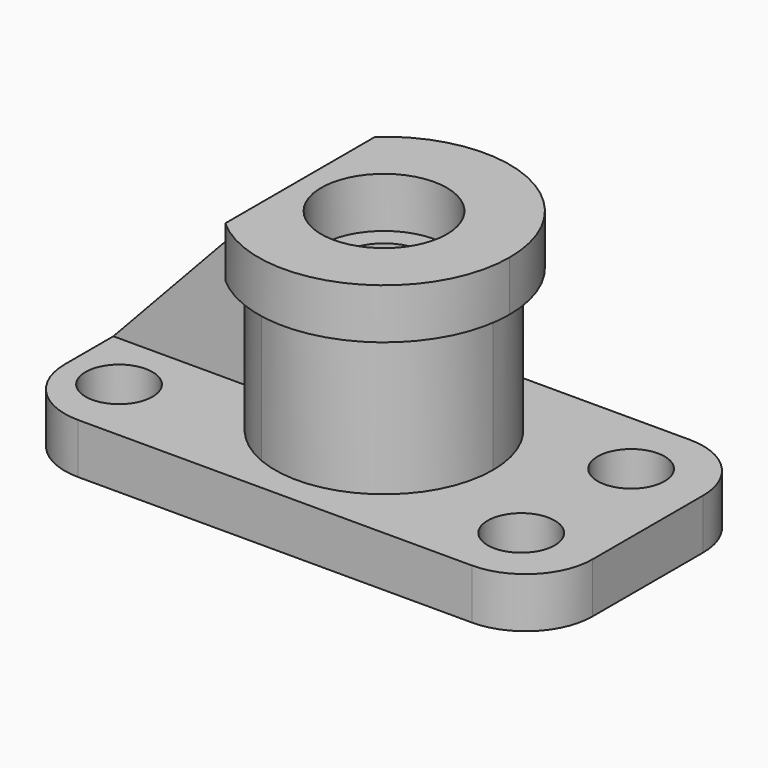
from build123d import *

# Parameters (mm, degrees)
F1_DEPTH  = 58
F3_DEPTH  = 12
F4_R      = 8
F5_DEPTH  = 25
F6_R      = 16
F7_R      = 10
F8_DEPTH  = 12
F9_R      = 15
F9_R_2    = 10
F10_DEPTH = 12
F11_DEPTH = 46
F12_W     = 43
F12_H     = 4
F13_DEPTH = 46
F15_DEPTH = 25


with BuildPart() as f1:
    # F0 (on Top) → F1 (new body)
    with BuildSketch(Plane.XY):
        with BuildLine():
            ThreePointArc((-10, -24), (14.4222051019, -21.6333076528), (26, 0))
            ThreePointArc((26, 0), (14.4222051019, 21.6333076528), (-10, 24))
            Line((-10, 24), (-10, 0))
            Line((-10, 0), (-10, -24))
        make_face()
        with BuildLine():
            ThreePointArc((10, 0), (0, -10), (-10, 0))
            ThreePointArc((-10, 0), (0, 10), (10, 0))
        make_face(mode=Mode.SUBTRACT)
        with BuildLine():
            Line((-10, 0), (-10, 24))
            ThreePointArc((-10, 24), (-26, 0), (-10, -24))
            Line((-10, -24), (-10, 0))
        make_face()
    extrude(amount=F1_DEPTH)

    # F2 (on face) → F3 (join)
    with BuildSketch(Plane(origin=(0, 0, 0), x_dir=(1, 0, 0), z_dir=(0, 0, -1))):
        Polygon((63, 32.5), (0, 32.5), (-63, 32.5), (-63, -32.5), (63, -32.5), align=None)
    extrude(amount=-F3_DEPTH)

    # F4 (on face) → F5 (cut)
    with BuildSketch(Plane.XY.offset(12)):
        with Locations((-50.0454586766, -16.5)):
            Circle(F4_R)
        with Locations((-50.2054683586, 16.5)):
            Circle(F4_R)
        with Locations((45.7945316414, 16.5)):
            Circle(F4_R)
        with Locations((45.9545413234, -16.5)):
            Circle(F4_R)
    extrude(amount=-F5_DEPTH, mode=Mode.SUBTRACT)

    # F6
    f6_edges = [f1.edges().sort_by_distance(p)[0] for p in [
        (-63, 32.5, 6),
        (-63, -32.5, 6),
        (63, 32.5, 6),
        (63, -32.5, 6),
    ]]
    fillet(f6_edges, radius=F6_R)

    # F7 (on face) → F8 (join)
    with BuildSketch(Plane.XY.offset(58)):
        with BuildLine():
            ThreePointArc((26, 0), (8.8317608663, 24.4540385213), (-20, 16.6132477258))
            Line((-20, 16.6132477258), (-20, -16.6132477258))
            ThreePointArc((-20, -16.6132477258), (8.8317608663, -24.4540385213), (26, 0))
        make_face()
        Circle(F7_R, mode=Mode.SUBTRACT)
        with BuildLine():
            ThreePointArc((-20, -22.360679775), (12.2474487139, -27.3861278753), (30, 0))
            ThreePointArc((30, 0), (12.2474487139, 27.3861278753), (-20, 22.360679775))
            Line((-20, 22.360679775), (-20, 16.6132477258))
            ThreePointArc((-20, 16.6132477258), (8.8317608663, 24.4540385213), (26, 0))
            ThreePointArc((26, 0), (8.8317608663, -24.4540385213), (-20, -16.6132477258))
            Line((-20, -16.6132477258), (-20, -22.360679775))
        make_face()
        Circle(F7_R)
        with BuildLine():
            Line((-20, 16.6132477258), (-20, 22.360679775))
            ThreePointArc((-20, 22.360679775), (-30, 0), (-20, -22.360679775))
            Line((-20, -22.360679775), (-20, -16.6132477258))
            ThreePointArc((-20, -16.6132477258), (-26, 0), (-20, 16.6132477258))
        make_face()
        with BuildLine():
            Line((-20, -16.6132477258), (-20, 16.6132477258))
            ThreePointArc((-20, 16.6132477258), (-26, 0), (-20, -16.6132477258))
        make_face()
    extrude(amount=-F8_DEPTH)

    # F9 (on face) → F10 (cut)
    with BuildSketch(Plane.XY.offset(58)):
        Circle(F9_R)
        Circle(F9_R_2, mode=Mode.SUBTRACT)
        Circle(F9_R_2)
    extrude(amount=-F10_DEPTH, mode=Mode.SUBTRACT)

    # F7 (on face) → F11 (cut)
    with BuildSketch(Plane.XY.offset(58)):
        with BuildLine():
            Line((-20, 16.6132477258), (-20, 22.360679775))
            ThreePointArc((-20, 22.360679775), (-30, 0), (-20, -22.360679775))
            Line((-20, -22.360679775), (-20, -16.6132477258))
            ThreePointArc((-20, -16.6132477258), (-26, 0), (-20, 16.6132477258))
        make_face()
        with BuildLine():
            Line((-20, -16.6132477258), (-20, 16.6132477258))
            ThreePointArc((-20, 16.6132477258), (-26, 0), (-20, -16.6132477258))
        make_face()
    extrude(amount=-F11_DEPTH, mode=Mode.SUBTRACT)

    # F12 (on face) → F13 (join)
    with BuildSketch(Plane.XY.offset(12)):
        with Locations((-41.5, 0)):
            Rectangle(F12_W, F12_H)
    extrude(amount=F13_DEPTH)

    # F14 (on face) → F15 (cut)
    with BuildSketch(Plane.XZ.offset(2)):
        Polygon((-63, 12), (-20, 58), (-63, 58), align=None)
    extrude(amount=-F15_DEPTH, mode=Mode.SUBTRACT)


solid = f1.part
